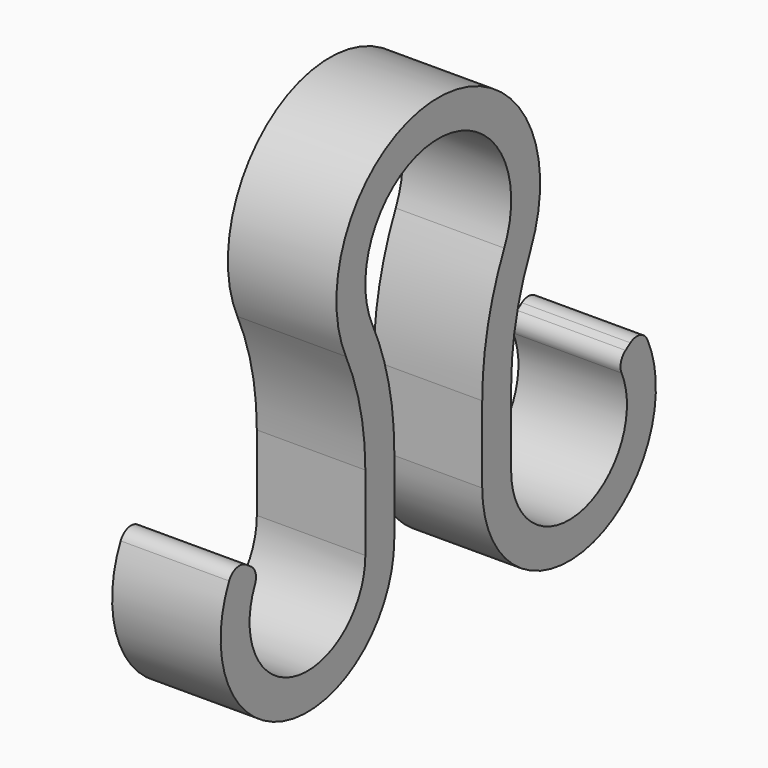
from build123d import *

# Parameters (mm, degrees)
F2_DEPTH = 15
F3_R     = 36
F4_R     = 40
F5_R     = 2


with BuildPart() as f2:
    # F1 (on Right) → F2 (new body)
    with BuildSketch(Plane.YZ):
        with BuildLine():
            ThreePointArc((-7.6, -10.049876), (0, 12.6), (7.6, -10.049876))
            Line((7.6, -10.049876), (7.6, -33.003636))
            ThreePointArc((7.6, -33.003636), (27.035907, -47.332723), (34.976364, -24.528636))
            Line((34.976364, -24.528636), (30.850909, -27.353636))
            ThreePointArc((30.850909, -27.353636), (25.557272, -42.556361), (12.6, -33.003636))
            Line((12.6, -33.003636), (12.6, -12.288206))
            ThreePointArc((12.6, -12.288206), (0, 17.6), (-12.6, -12.288206))
            Line((-12.6, -12.288206), (-12.6, -33.003636))
            ThreePointArc((-12.6, -33.003636), (-25.557272, -42.556361), (-30.850909, -27.353636))
            Line((-30.850909, -27.353636), (-34.976364, -24.528636))
            ThreePointArc((-34.976364, -24.528636), (-27.035907, -47.332723), (-7.6, -33.003636))
            Line((-7.6, -33.003636), (-7.6, -10.049876))
        make_face()
    extrude(amount=F2_DEPTH)

    # F3
    f3_edges = [f2.edges().sort_by_distance(p)[0] for p in [
        (7.5, 12.6, -12.288206),
        (7.5, -12.6, -12.288206),
    ]]
    fillet(f3_edges, radius=F3_R)

    # F4
    f4_edges = [f2.edges().sort_by_distance(p)[0] for p in [
        (7.5, 7.6, -10.049876),
        (7.5, -7.6, -10.049876),
    ]]
    fillet(f4_edges, radius=F4_R)

    # F5
    f5_edges = [f2.edges().sort_by_distance(p)[0] for p in [
        (7.5, 30.850909, -27.353636),
        (7.5, 34.976364, -24.528636),
        (7.5, -30.850909, -27.353636),
        (7.5, -34.976364, -24.528636),
    ]]
    fillet(f5_edges, radius=F5_R)


solid = f2.part
